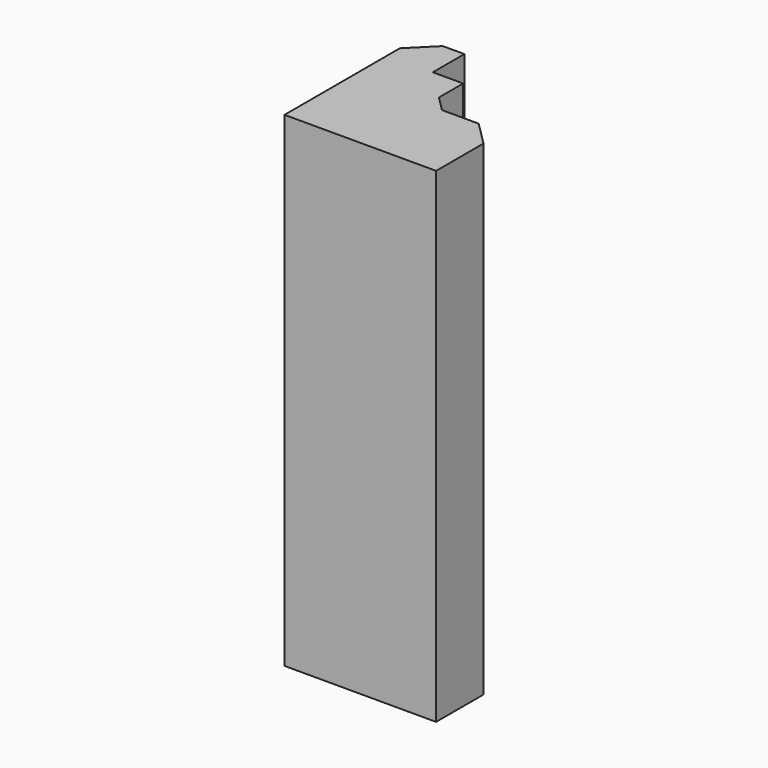
from build123d import *

# Parameters (mm, degrees)
PAD_DEPTH       = 20.32
CHAMFER_SIZE    = 0.635
CHAMFER001_SIZE = 1
CHAMFER002_SIZE = 1


with BuildPart() as part:
    # Sketch → Pad (new body)
    with BuildSketch(Plane.XY):
        Polygon((0, 0), (-6.35, 0), (-6.35, 7.0358), (-4.445, 7.0358), (-4.445, 5.3848), (-3.175, 5.3848), (-3.175, 3.4798), (0, 3.4798), align=None)
    extrude(amount=PAD_DEPTH)

    # Chamfer
    chamfer_edges = [part.edges().sort_by_distance(p)[0] for p in [
        (-3.175, 3.4798, 10.16),
    ]]
    chamfer(chamfer_edges, length=CHAMFER_SIZE)

    # Chamfer001
    chamfer001_edges = [part.edges().sort_by_distance(p)[0] for p in [
        (-6.35, 7.0358, 10.16),
    ]]
    chamfer(chamfer001_edges, length=CHAMFER001_SIZE)

    # Chamfer002
    chamfer002_edges = [part.edges().sort_by_distance(p)[0] for p in [
        (0, 3.4798, 10.16),
    ]]
    chamfer(chamfer002_edges, length=CHAMFER002_SIZE)


solid = part.part
